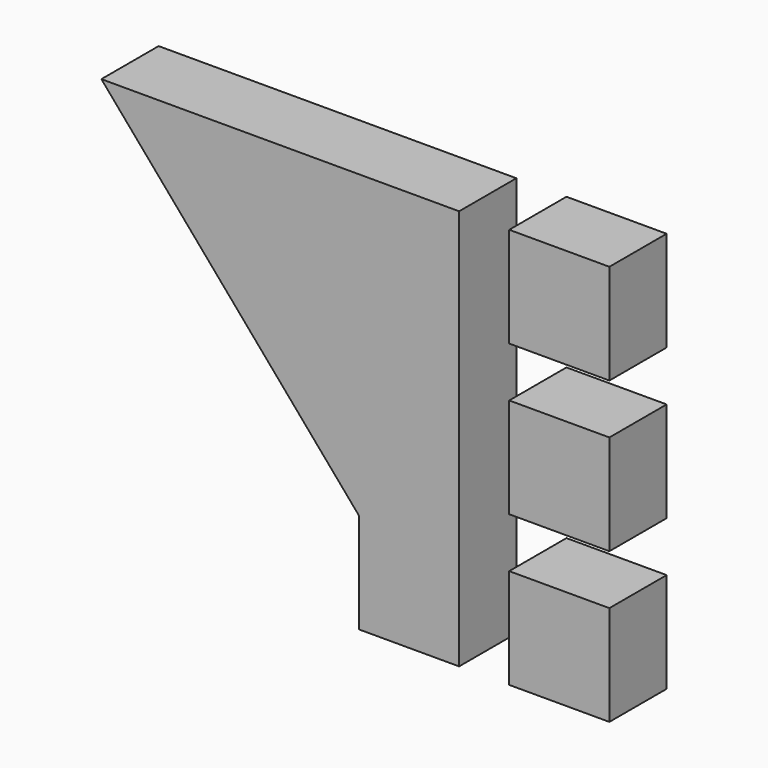
from build123d import *

# Parameters (mm, degrees)
F0_W     = 7
F0_H     = 7
F1_DEPTH = 5


with BuildPart() as f1:
    # F0 (on Front) → F1 (new body)
    with BuildSketch(Plane.XZ):
        Polygon((0, 28), (-25, 28), (-7, 7), (-7, 0), (0, 0), align=None)
        with Locations((7, 24.5)):
            Rectangle(F0_W, F0_H)
        with Locations((7, 14)):
            Rectangle(F0_W, F0_H)
        with Locations((7, 3.5)):
            Rectangle(F0_W, F0_H)
    extrude(amount=F1_DEPTH)


solid = f1.part
